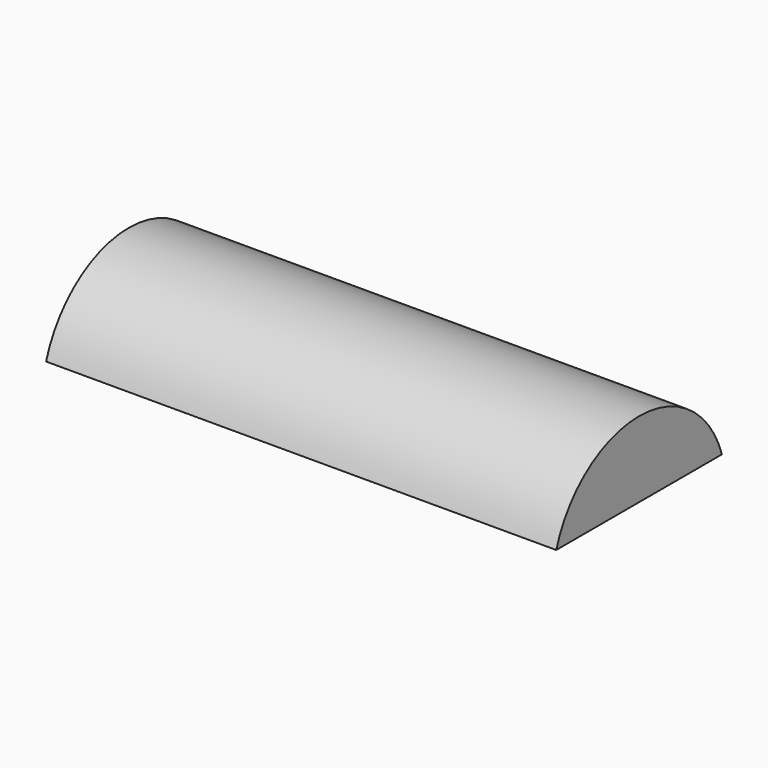
from build123d import *

# Parameters (mm, degrees)
F1_DEPTH = 38


with BuildPart() as f1:
    # F0 (on Right) → F1 (new body)
    with BuildSketch(Plane.YZ):
        with BuildLine():
            Line((-6.999748, 0), (8.423252, 0))
            ThreePointArc((8.423252, 0), (0.711752, 5.642714), (-6.999748, 0))
        make_face()
    extrude(amount=F1_DEPTH)


solid = f1.part
